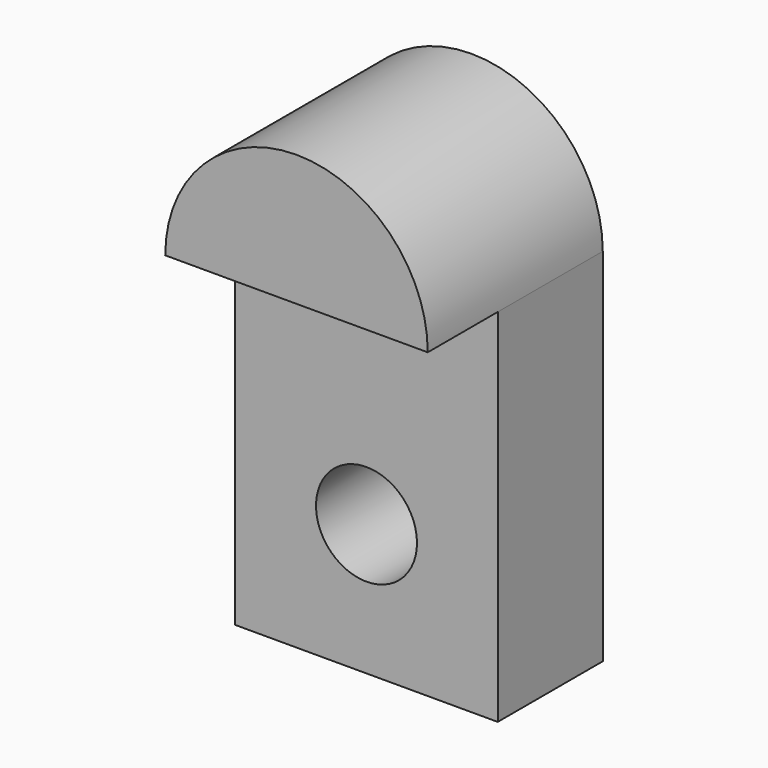
from build123d import *

# Parameters (mm, degrees)
F0_W     = 15.24
F0_H     = 20.9549992294
F0_R     = 2.9310682444
F1_DEPTH = 7.62
F2_DEPTH = 12.7


with BuildPart() as f1:
    # F0 (on Front) → F1 (new body)
    with BuildSketch(Plane.XZ):
        with BuildLine():
            ThreePointArc((-13.9654323469, 25.8065824842), (-21.5854323469, 33.4265824842), (-29.2054323469, 25.8065824842))
            Line((-29.2054323469, 25.8065824842), (-13.9654323469, 25.8065824842))
        make_face()
        with Locations((-21.5854323469, 15.3290828695)):
            Rectangle(F0_W, F0_H)
        with Locations((-21.5854323469, 12.4715832548)):
            Circle(F0_R, mode=Mode.SUBTRACT)
    extrude(amount=F1_DEPTH)

    # F0 (on Front) → F2 (join)
    with BuildSketch(Plane.XZ):
        with BuildLine():
            ThreePointArc((-13.9654323469, 25.8065824842), (-21.5854323469, 33.4265824842), (-29.2054323469, 25.8065824842))
            Line((-29.2054323469, 25.8065824842), (-13.9654323469, 25.8065824842))
        make_face()
    extrude(amount=F2_DEPTH)


solid = f1.part
